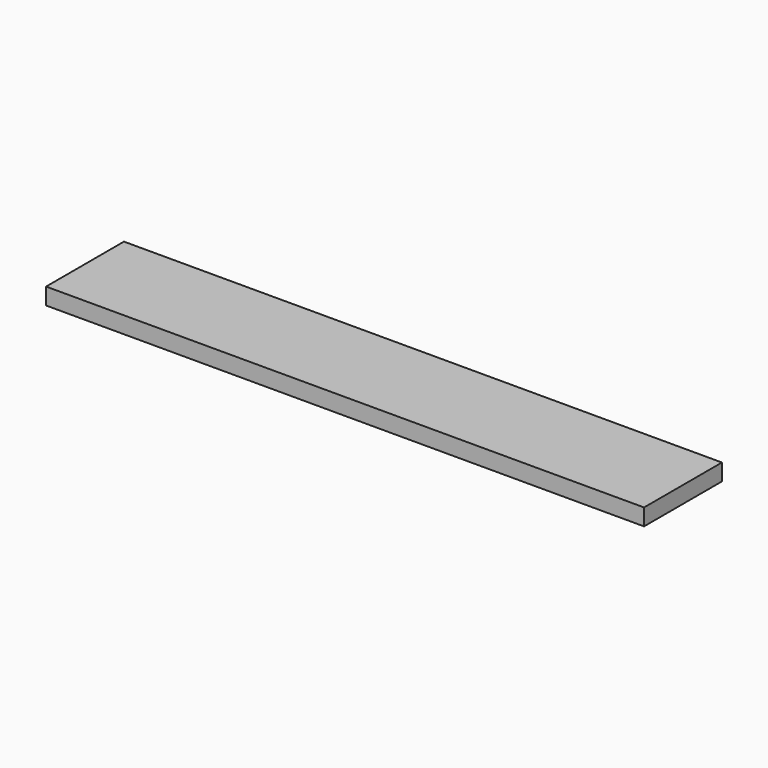
from build123d import *

# Parameters (mm, degrees)
F0_W          = 430
F0_H          = 70
F1_DEPTH      = 6
F1_DEPTH_BACK = 6
F3_D          = 3.4544
F3_DEPTH      = 8.5294166667
F3_TIP        = 1.0378064612


with BuildPart() as f1:
    # F0 (on Top) → F1 (new body, two sides)
    with BuildSketch(Plane.XY) as f1_sk:
        Rectangle(F0_W, F0_H)
    extrude(amount=F1_DEPTH)
    extrude(f1_sk.sketch, amount=-F1_DEPTH_BACK)

    # F3
    with Locations(Plane(origin=(0, 0, -6), x_dir=(1, 0, 0), z_dir=(0, 0, -1))):
        with Locations((-75, 0), (145, 0), (35, 0)):
            Hole(F3_D / 2, depth=F3_DEPTH)
            with Locations((0, 0, -(F3_DEPTH + F3_TIP / 2))):  # 118° drill point
                Cone(0, F3_D / 2, F3_TIP, mode=Mode.SUBTRACT)


solid = f1.part
